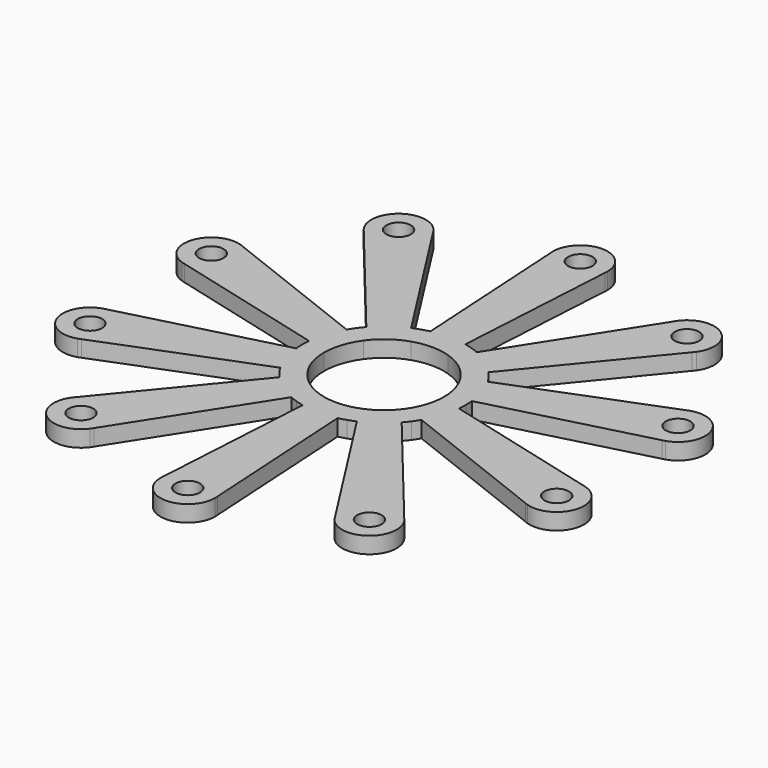
from build123d import *

# Parameters (mm, degrees)
F0_R     = 2.25
F1_DEPTH = 3


with BuildPart() as f1:
    # F0 (on Top) → F1 (new body)
    with BuildSketch(Plane.XY):
        with BuildLine():
            Line((-4.9653712728, 44.4125579834), (-3.2110521862, 14.6522743578))
            ThreePointArc((-3.2110521862, 14.6522743578), (-3.9279084977, 14.4765857451), (-4.6352549156, 14.2658477444))
            ThreePointArc((-4.6352549156, 14.2658477444), (-5.3313788775, 14.0205705756), (-6.0145949916, 13.7413480811))
            Line((-6.0145949916, 13.7413480811), (-22.0879768561, 38.8490861785))
            Line((-22.0879768561, 38.8490861785), (-22.4052513813, 39.3446910083))
            ThreePointArc((-22.4052513813, 39.3446910083), (-29.3892626146, 40.4508497187), (-30.495421325, 33.4668384854))
            Line((-30.495421325, 33.4668384854), (-30.1221163423, 33.0119421659))
            Line((-30.1221163423, 33.0119421659), (-11.2101865686, 9.9665298423))
            ThreePointArc((-11.2101865686, 9.9665298423), (-11.6868683315, 9.403037201), (-12.1352549156, 8.8167787844))
            ThreePointArc((-12.1352549156, 8.8167787844), (-12.5542607284, 8.2091739879), (-12.9428713112, 7.5816938887))
            Line((-12.9428713112, 7.5816938887), (-40.7044685687, 18.4465838854))
            Line((-40.7044685687, 18.4465838854), (-41.2524582614, 18.6610473283))
            ThreePointArc((-41.2524582614, 18.6610473283), (-47.5528258148, 15.4508497187), (-44.3426282052, 9.1504821654))
            Line((-44.3426282052, 9.1504821654), (-43.7732367821, 9.0018864757))
            Line((-43.7732367821, 9.0018864757), (-14.9274107019, 1.4739096769))
            ThreePointArc((-14.9274107019, 1.4739096769), (-14.9818416847, 0.7378480436), (-15, 0))
            ThreePointArc((-15, 0), (-14.9818416847, -0.7378480436), (-14.9274107019, -1.4739096769))
            Line((-14.9274107019, -1.4739096769), (-43.7732367821, -9.0018864757))
            Line((-43.7732367821, -9.0018864757), (-44.3426282052, -9.1504821654))
            ThreePointArc((-44.3426282052, -9.1504821654), (-47.5528258148, -15.4508497187), (-41.2524582614, -18.6610473283))
            Line((-41.2524582614, -18.6610473283), (-40.7044685687, -18.4465838854))
            Line((-40.7044685687, -18.4465838854), (-12.9428713112, -7.5816938887))
            ThreePointArc((-12.9428713112, -7.5816938887), (-12.5542607284, -8.2091739879), (-12.1352549156, -8.8167787844))
            ThreePointArc((-12.1352549156, -8.8167787844), (-11.6868683315, -9.403037201), (-11.2101865686, -9.9665298423))
            Line((-11.2101865686, -9.9665298423), (-30.1221163423, -33.0119421659))
            Line((-30.1221163423, -33.0119421659), (-30.495421325, -33.4668384854))
            ThreePointArc((-30.495421325, -33.4668384854), (-29.3892626146, -40.4508497187), (-22.4052513813, -39.3446910083))
            Line((-22.4052513813, -39.3446910083), (-22.0879768561, -38.8490861785))
            Line((-22.0879768561, -38.8490861785), (-6.0145949916, -13.7413480811))
            ThreePointArc((-6.0145949916, -13.7413480811), (-5.3313788775, -14.0205705756), (-4.6352549156, -14.2658477444))
            ThreePointArc((-4.6352549156, -14.2658477444), (-3.9279084977, -14.4765857451), (-3.2110521862, -14.6522743578))
            Line((-3.2110521862, -14.6522743578), (-4.9653712728, -44.4125579834))
            Line((-4.9653712728, -44.4125579834), (-5, -45))
            ThreePointArc((-5, -45), (0, -50), (5, -45))
            Line((5, -45), (4.9653712728, -44.4125579834))
            Line((4.9653712728, -44.4125579834), (3.2110521862, -14.6522743578))
            ThreePointArc((3.2110521862, -14.6522743578), (3.9279084977, -14.4765857451), (4.6352549156, -14.2658477444))
            ThreePointArc((4.6352549156, -14.2658477444), (5.3313788775, -14.0205705756), (6.0145949916, -13.7413480811))
            Line((6.0145949916, -13.7413480811), (22.0879768561, -38.8490861785))
            Line((22.0879768561, -38.8490861785), (22.4052513813, -39.3446910083))
            ThreePointArc((22.4052513813, -39.3446910083), (29.3892626146, -40.4508497187), (30.495421325, -33.4668384854))
            Line((30.495421325, -33.4668384854), (30.1221163423, -33.0119421659))
            Line((30.1221163423, -33.0119421659), (11.2101865686, -9.9665298423))
            ThreePointArc((11.2101865686, -9.9665298423), (11.6868683315, -9.403037201), (12.1352549156, -8.8167787844))
            ThreePointArc((12.1352549156, -8.8167787844), (12.5542607284, -8.2091739879), (12.9428713112, -7.5816938887))
            Line((12.9428713112, -7.5816938887), (40.7044685687, -18.4465838854))
            Line((40.7044685687, -18.4465838854), (41.2524582614, -18.6610473283))
            ThreePointArc((41.2524582614, -18.6610473283), (47.5528258148, -15.4508497187), (44.3426282052, -9.1504821654))
            Line((44.3426282052, -9.1504821654), (43.7732367821, -9.0018864757))
            Line((43.7732367821, -9.0018864757), (14.9274107019, -1.4739096769))
            ThreePointArc((14.9274107019, -1.4739096769), (14.9818416847, -0.7378480436), (15, 0))
            ThreePointArc((15, 0), (14.9818416847, 0.7378480436), (14.9274107019, 1.4739096769))
            Line((14.9274107019, 1.4739096769), (43.7732367821, 9.0018864757))
            Line((43.7732367821, 9.0018864757), (44.3426282052, 9.1504821654))
            ThreePointArc((44.3426282052, 9.1504821654), (47.5528258148, 15.4508497187), (41.2524582614, 18.6610473283))
            Line((41.2524582614, 18.6610473283), (40.7044685687, 18.4465838854))
            Line((40.7044685687, 18.4465838854), (12.9428713112, 7.5816938887))
            ThreePointArc((12.9428713112, 7.5816938887), (12.5542607284, 8.2091739879), (12.1352549156, 8.8167787844))
            ThreePointArc((12.1352549156, 8.8167787844), (11.6868683315, 9.403037201), (11.2101865686, 9.9665298423))
            Line((11.2101865686, 9.9665298423), (30.1221163423, 33.0119421659))
            Line((30.1221163423, 33.0119421659), (30.495421325, 33.4668384854))
            ThreePointArc((30.495421325, 33.4668384854), (29.3892626146, 40.4508497187), (22.4052513813, 39.3446910083))
            Line((22.4052513813, 39.3446910083), (22.0879768561, 38.8490861785))
            Line((22.0879768561, 38.8490861785), (6.0145949916, 13.7413480811))
            ThreePointArc((6.0145949916, 13.7413480811), (5.3313788775, 14.0205705756), (4.6352549156, 14.2658477444))
            ThreePointArc((4.6352549156, 14.2658477444), (3.9279084977, 14.4765857451), (3.2110521862, 14.6522743578))
            Line((3.2110521862, 14.6522743578), (4.9653712728, 44.4125579834))
            Line((4.9653712728, 44.4125579834), (5, 45))
            ThreePointArc((5, 45), (0, 50), (-5, 45))
            Line((-5, 45), (-4.9653712728, 44.4125579834))
        make_face()
        with Locations((-26.4503363532, -36.4057647469)):
            Circle(F0_R, mode=Mode.SUBTRACT)
        with Locations((-42.7975432333, -13.9057647469)):
            Circle(F0_R, mode=Mode.SUBTRACT)
        with Locations((0, -45)):
            Circle(F0_R, mode=Mode.SUBTRACT)
        with Locations((26.4503363532, -36.4057647469)):
            Circle(F0_R, mode=Mode.SUBTRACT)
        with Locations((42.7975432333, -13.9057647469)):
            Circle(F0_R, mode=Mode.SUBTRACT)
        with Locations((-42.7975432333, 13.9057647469)):
            Circle(F0_R, mode=Mode.SUBTRACT)
        with Locations((-26.4503363532, 36.4057647469)):
            Circle(F0_R, mode=Mode.SUBTRACT)
        with BuildLine():
            ThreePointArc((-3.3991869381, 10.4616216792), (0, 11), (3.3991869381, 10.4616216792))
            ThreePointArc((3.3991869381, 10.4616216792), (6.4656377752, 8.8991869381), (8.8991869381, 6.4656377752))
            ThreePointArc((8.8991869381, 6.4656377752), (10.4616216792, 3.3991869381), (11, 0))
            ThreePointArc((11, 0), (10.4616216792, -3.3991869381), (8.8991869381, -6.4656377752))
            ThreePointArc((8.8991869381, -6.4656377752), (6.4656377752, -8.8991869381), (3.3991869381, -10.4616216792))
            ThreePointArc((3.3991869381, -10.4616216792), (0, -11), (-3.3991869381, -10.4616216792))
            ThreePointArc((-3.3991869381, -10.4616216792), (-6.4656377752, -8.8991869381), (-8.8991869381, -6.4656377752))
            ThreePointArc((-8.8991869381, -6.4656377752), (-10.4616216792, -3.3991869381), (-11, 0))
            ThreePointArc((-11, 0), (-10.4616216792, 3.3991869381), (-8.8991869381, 6.4656377752))
            ThreePointArc((-8.8991869381, 6.4656377752), (-6.4656377752, 8.8991869381), (-3.3991869381, 10.4616216792))
        make_face(mode=Mode.SUBTRACT)
        with Locations((42.7975432333, 13.9057647469)):
            Circle(F0_R, mode=Mode.SUBTRACT)
        with BuildLine():
            ThreePointArc((0, 42.75), (-1.5909902577, 46.5909902577), (2.25, 45))
            ThreePointArc((2.25, 45), (1.5909902577, 43.4090097423), (0, 42.75))
        make_face(mode=Mode.SUBTRACT)
        with Locations((26.4503363532, 36.4057647469)):
            Circle(F0_R, mode=Mode.SUBTRACT)
        with BuildLine():
            ThreePointArc((-5, 45), (-4.9913353105, 44.7057691078), (-4.9653712728, 44.4125579834))
            Line((-4.9653712728, 44.4125579834), (-5, 45))
        make_face()
        with BuildLine():
            Line((-22.4052513813, 39.3446910083), (-22.0879768561, 38.8490861785))
            ThreePointArc((-22.0879768561, 38.8490861785), (-22.2393166831, 39.1015602396), (-22.4052513813, 39.3446910083))
        make_face()
        with BuildLine():
            ThreePointArc((4.9653712728, 44.4125579834), (4.9913353105, 44.7057691078), (5, 45))
            Line((5, 45), (4.9653712728, 44.4125579834))
        make_face()
        with BuildLine():
            Line((-30.1221163423, 33.0119421659), (-30.495421325, 33.4668384854))
            ThreePointArc((-30.495421325, 33.4668384854), (-30.3154668648, 33.2338936701), (-30.1221163423, 33.0119421659))
        make_face()
        with BuildLine():
            ThreePointArc((22.4052513813, 39.3446910083), (22.2393166831, 39.1015602396), (22.0879768561, 38.8490861785))
            Line((22.0879768561, 38.8490861785), (22.4052513813, 39.3446910083))
        make_face()
        with BuildLine():
            Line((-41.2524582614, 18.6610473283), (-40.7044685687, 18.4465838854))
            ThreePointArc((-40.7044685687, 18.4465838854), (-40.9753055904, 18.561884373), (-41.2524582614, 18.6610473283))
        make_face()
        with BuildLine():
            ThreePointArc((30.1221163423, 33.0119421659), (30.3154668648, 33.2338936701), (30.495421325, 33.4668384854))
            Line((30.495421325, 33.4668384854), (30.1221163423, 33.0119421659))
        make_face()
        with BuildLine():
            Line((-43.7732367821, 9.0018864757), (-44.3426282052, 9.1504821654))
            ThreePointArc((-44.3426282052, 9.1504821654), (-44.0601204616, 9.0678004288), (-43.7732367821, 9.0018864757))
        make_face()
        with BuildLine():
            ThreePointArc((41.2524582614, 18.6610473283), (40.9753055904, 18.561884373), (40.7044685687, 18.4465838854))
            Line((40.7044685687, 18.4465838854), (41.2524582614, 18.6610473283))
        make_face()
        with BuildLine():
            Line((-44.3426282052, -9.1504821654), (-43.7732367821, -9.0018864757))
            ThreePointArc((-43.7732367821, -9.0018864757), (-44.0601204616, -9.0678004288), (-44.3426282052, -9.1504821654))
        make_face()
        with BuildLine():
            ThreePointArc((43.7732367821, 9.0018864757), (44.0601204616, 9.0678004288), (44.3426282052, 9.1504821654))
            Line((44.3426282052, 9.1504821654), (43.7732367821, 9.0018864757))
        make_face()
        with BuildLine():
            Line((-40.7044685687, -18.4465838854), (-41.2524582614, -18.6610473283))
            ThreePointArc((-41.2524582614, -18.6610473283), (-40.9753055904, -18.561884373), (-40.7044685687, -18.4465838854))
        make_face()
        with BuildLine():
            ThreePointArc((44.3426282052, -9.1504821654), (44.0601204616, -9.0678004288), (43.7732367821, -9.0018864757))
            Line((43.7732367821, -9.0018864757), (44.3426282052, -9.1504821654))
        make_face()
        with BuildLine():
            Line((-30.495421325, -33.4668384854), (-30.1221163423, -33.0119421659))
            ThreePointArc((-30.1221163423, -33.0119421659), (-30.3154668648, -33.2338936701), (-30.495421325, -33.4668384854))
        make_face()
        with BuildLine():
            ThreePointArc((40.7044685687, -18.4465838854), (40.9753055904, -18.561884373), (41.2524582614, -18.6610473283))
            Line((41.2524582614, -18.6610473283), (40.7044685687, -18.4465838854))
        make_face()
        with BuildLine():
            Line((-22.0879768561, -38.8490861785), (-22.4052513813, -39.3446910083))
            ThreePointArc((-22.4052513813, -39.3446910083), (-22.2393166831, -39.1015602396), (-22.0879768561, -38.8490861785))
        make_face()
        with BuildLine():
            ThreePointArc((30.495421325, -33.4668384854), (30.3154668648, -33.2338936701), (30.1221163423, -33.0119421659))
            Line((30.1221163423, -33.0119421659), (30.495421325, -33.4668384854))
        make_face()
        with BuildLine():
            Line((-5, -45), (-4.9653712728, -44.4125579834))
            ThreePointArc((-4.9653712728, -44.4125579834), (-4.9913353105, -44.7057691078), (-5, -45))
        make_face()
        with BuildLine():
            ThreePointArc((22.0879768561, -38.8490861785), (22.2393166831, -39.1015602396), (22.4052513813, -39.3446910083))
            Line((22.4052513813, -39.3446910083), (22.0879768561, -38.8490861785))
        make_face()
        with BuildLine():
            Line((4.9653712728, -44.4125579834), (5, -45))
            ThreePointArc((5, -45), (4.9913353105, -44.7057691078), (4.9653712728, -44.4125579834))
        make_face()
    extrude(amount=F1_DEPTH)


solid = f1.part
